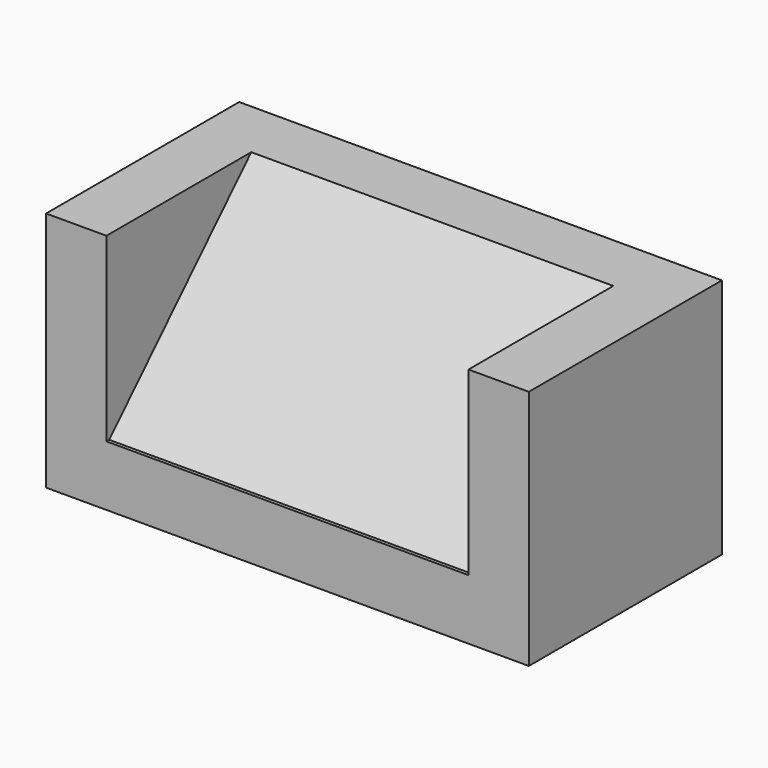
from build123d import *

# Parameters (mm, degrees)
F0_W     = 203.2
F0_H     = 101.6
F1_DEPTH = 101.6
F2_W     = 152.4
F2_H     = 76.2
F3_DEPTH = 76.2
F5_DEPTH = 152.4


with BuildPart() as f1:
    # F0 (on Front) → F1 (new body)
    with BuildSketch(Plane.XZ):
        with Locations((-3.343664, 13.419016)):
            Rectangle(F0_W, F0_H)
    extrude(amount=F1_DEPTH)

    # F2 (on face) → F3 (cut)
    with BuildSketch(Plane.XZ.offset(101.6)):
        with Locations((-3.343664, 26.119016)):
            Rectangle(F2_W, F2_H)
    extrude(amount=-F3_DEPTH, mode=Mode.SUBTRACT)

    # F4 (on face) → F5 (join)
    with BuildSketch(Plane.YZ.offset(-79.543664)):
        Polygon((-25.4, -11.980984), (-25.4, 64.219016), (-100.127868, -11.980984), align=None)
    extrude(amount=F5_DEPTH)


solid = f1.part
